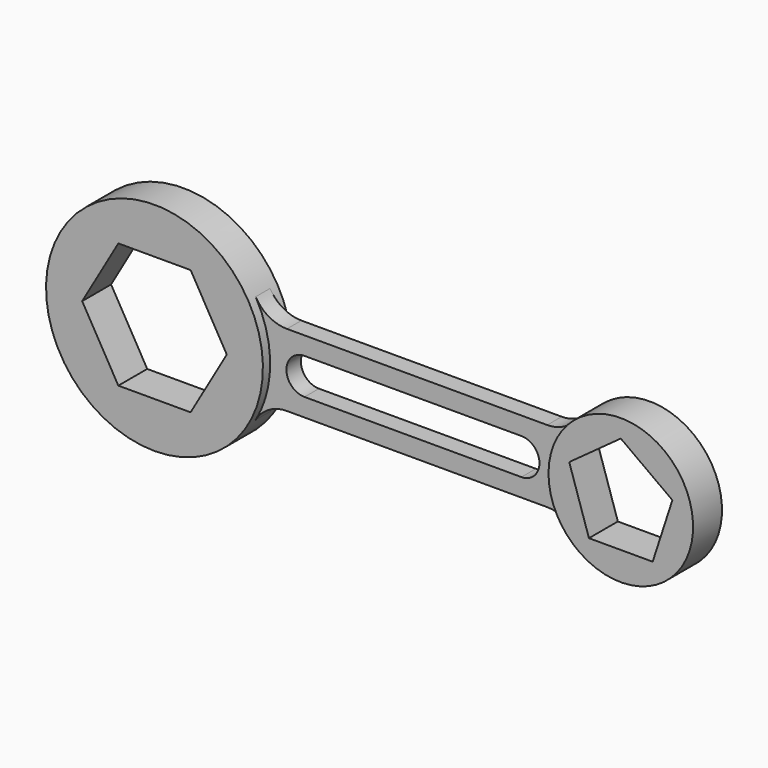
from build123d import *

# Parameters (mm, degrees)
F1_DEPTH = 127
F2_DEPTH = 63.5


with BuildPart() as f1:
    # F0 (on Front) → F1 (new body, symmetric)
    with BuildSketch(Plane.XZ):
        with BuildLine():
            ThreePointArc((3784.6, 0), (3457.8656216047, 474.5595583531), (2897.95915581, 338.6666666667))
            ThreePointArc((2897.95915581, 338.6666666667), (2768.6, 0), (2897.95915581, -338.6666666667))
            ThreePointArc((2897.95915581, -338.6666666667), (3457.8656216047, -474.5595583531), (3784.6, 0))
        make_face()
        Polygon((2914.2474672915, 117.7354748569), (3276.6, 381), (3638.9525327085, 117.7354748569), (3500.5461811234, -308.2354748569), (3052.6538188766, -308.2354748569), align=None, mode=Mode.SUBTRACT)
    extrude(amount=F1_DEPTH, both=True)


with BuildPart() as f1b:
    # F0 (on Front) → F1, piece 2 (new body, symmetric)
    with BuildSketch(Plane.XZ):
        with BuildLine():
            ThreePointArc((659.9113576837, -381), (736.0354796323, -197.2201123681), (762, 0))
            ThreePointArc((762, 0), (736.0354796323, 197.2201123681), (659.9113576837, 381))
            ThreePointArc((659.9113576837, 381), (-762, 0), (659.9113576837, -381))
        make_face()
        Polygon((254, 439.9409051225), (508, 0), (254, -439.9409051225), (-254, -439.9409051225), (-508, 0), (-254, 439.9409051225), align=None, mode=Mode.SUBTRACT)
    extrude(amount=F1_DEPTH, both=True)


with BuildPart() as f2:
    # F0 (on Front) → F2 (new body, symmetric)
    with BuildSketch(Plane.XZ):
        with BuildLine():
            ThreePointArc((659.9113576837, 381), (736.0354796323, 197.2201123681), (762, 0))
            ThreePointArc((762, 0), (736.0354796323, -197.2201123681), (659.9113576837, -381))
            ThreePointArc((659.9113576837, -381), (752.881810245, -288.0295474388), (879.881810245, -254))
            Line((879.881810245, -254), (1765.3, -254))
            Line((1765.3, -254), (2708.6387337151, -254))
            ThreePointArc((2708.6387337151, -254), (2812.3337994929, -276.1307839895), (2897.95915581, -338.6666666667))
            ThreePointArc((2897.95915581, -338.6666666667), (2768.6, 0), (2897.95915581, 338.6666666667))
            ThreePointArc((2897.95915581, 338.6666666667), (2812.3337994929, 276.1307839895), (2708.6387337151, 254))
            Line((2708.6387337151, 254), (1765.3, 254))
            Line((1765.3, 254), (879.881810245, 254))
            ThreePointArc((879.881810245, 254), (752.881810245, 288.0295474388), (659.9113576837, 381))
        make_face()
        with BuildLine():
            Line((1003.3, 127), (1765.3, 127))
            Line((1765.3, 127), (2527.3, 127))
            ThreePointArc((2527.3, 127), (2654.3, 0), (2527.3, -127))
            Line((2527.3, -127), (1003.3, -127))
            ThreePointArc((1003.3, -127), (876.3, 0), (1003.3, 127))
        make_face(mode=Mode.SUBTRACT)
    extrude(amount=F2_DEPTH, both=True)


solid = Compound([f1.part, f1b.part, f2.part])
